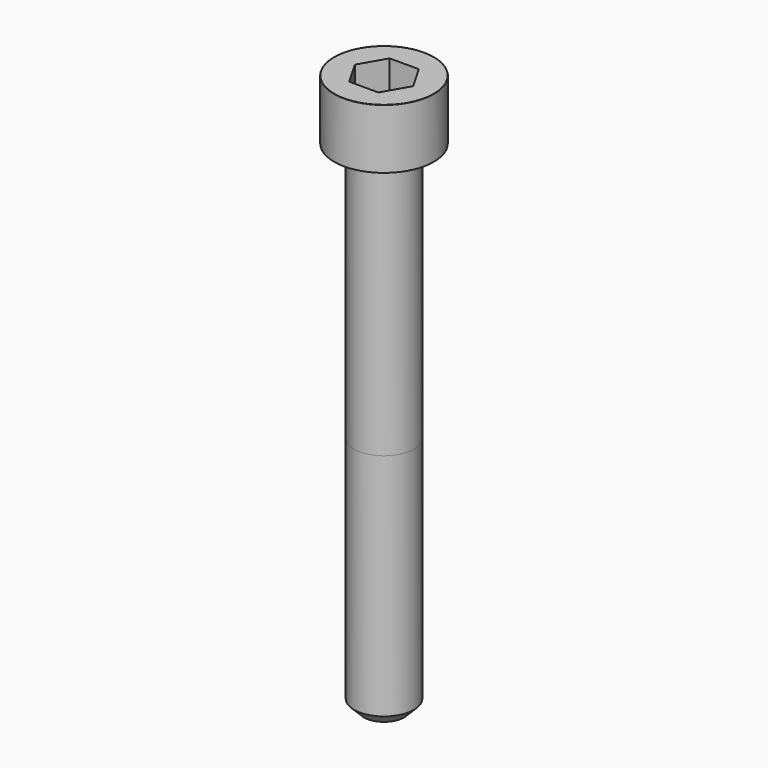
from build123d import *

# Parameters (mm, degrees)
POCKET_DEPTH = 5.06


with BuildPart() as part:
    # Sketch → Revolve (revolve)
    with BuildSketch(Plane.YZ):
        with BuildLine():
            Line((2.999, 0), (5, 0))
            Line((5, 0), (5, 5.97229))
            ThreePointArc((5, 5.97229), (4.991884, 5.991884), (4.97229, 6))
            Line((4.97229, 6), (0, 6))
            Line((0, -50), (0, 6))
            Line((2, -50), (0, -50))
            Line((3, -49), (2, -50))
            Line((3, -26), (3, -49))
            Line((2.999, 0), (3, -26))
        make_face()
    revolve(axis=Axis((0, 0, 0), (0, 0, 1)))

    # Sketch001 → Pocket (cut)
    with BuildSketch(Plane.XY.offset(6)):
        Polygon((2.921392, 0), (1.460696, 2.53), (-1.460696, 2.53), (-2.921392, 0), (-1.460696, -2.53), (1.460696, -2.53), align=None)
    extrude(amount=-POCKET_DEPTH, mode=Mode.SUBTRACT)


solid = part.part
